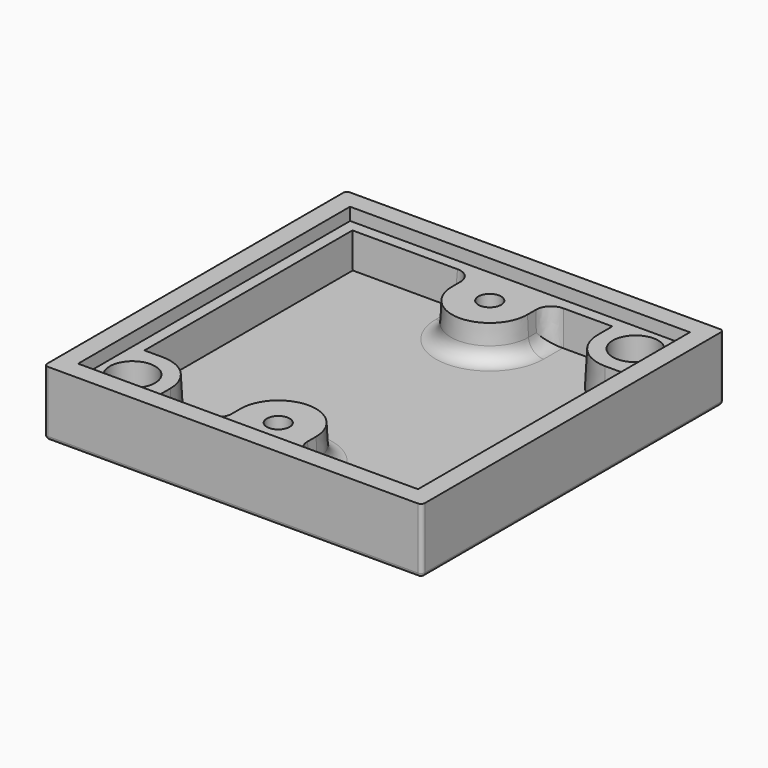
from build123d import *

# Parameters (mm, degrees)
F0_W      = 50
F0_H      = 50
F1_DEPTH  = 8.6
F2_W      = 45
F2_H      = 45
F3_DEPTH  = 1.6
F3_TAPER  = 3
F5_DEPTH  = 4.5
F5_TAPER  = 3
F6_R      = 3
F7_DEPTH  = 7
F8_R      = 0.5
F9_R      = 1.5095
F10_DEPTH = 5
F11_R     = 2


with BuildPart() as f1:
    # F0 (on Top) → F1 (new body)
    with BuildSketch(Plane.XY):
        Rectangle(F0_W, F0_H)
    extrude(amount=-F1_DEPTH)

    # F2 (on face) → F3 (cut)
    with BuildSketch(Plane.XY):
        Rectangle(F2_W, F2_H)
    extrude(amount=-F3_DEPTH, taper=F3_TAPER, mode=Mode.SUBTRACT)

    # F4 (on face) → F5 (cut)
    with BuildSketch(Plane.XY.offset(-1.6)):
        with BuildLine():
            Line((13.5, 18.5), (13.5, 20.9161475531))
            Line((13.5, 20.9161475531), (5, 20.9161475531))
            Line((5, 20.9161475531), (5, 17.5))
            ThreePointArc((5, 17.5), (0, 12.5), (-5, 17.5))
            Line((-5, 17.5), (-5, 20.9161475531))
            Line((-5, 20.9161475531), (-20.9161475531, 20.9161475531))
            Line((-20.9161475531, 20.9161475531), (-20.9161475531, -13.5))
            Line((-20.9161475531, -13.5), (-18.5, -13.5))
            ThreePointArc((-18.5, -13.5), (-14.9644660941, -14.9644660941), (-13.5, -18.5))
            Line((-13.5, -18.5), (-13.5, -20.9161475531))
            Line((-13.5, -20.9161475531), (-5, -20.9161475531))
            Line((-5, -20.9161475531), (-5, -17.5))
            ThreePointArc((-5, -17.5), (0, -12.5), (5, -17.5))
            Line((5, -17.5), (5, -20.9161475531))
            Line((5, -20.9161475531), (20.9161475531, -20.9161475531))
            Line((20.9161475531, -20.9161475531), (20.9161475531, 13.5))
            Line((20.9161475531, 13.5), (18.5, 13.5))
            ThreePointArc((18.5, 13.5), (14.9644660941, 14.9644660941), (13.5, 18.5))
        make_face()
    extrude(amount=-F5_DEPTH, taper=F5_TAPER, mode=Mode.SUBTRACT)

    # F6 (on face) → F7 (cut, through all)
    with BuildSketch(Plane.XY.offset(-1.6)):
        with Locations((18.5, 18.5)):
            Circle(F6_R)
        with Locations((-18.5, -18.5)):
            Circle(F6_R)
    extrude(amount=-F7_DEPTH, mode=Mode.SUBTRACT)

    # F8
    f8_edges = [f1.edges().sort_by_distance(p)[0] for p in [
        (0, -25, -8.6),
        (-25, -25, -4.3),
        (-25, 0, -8.6),
        (-21.5, -18.5, -8.6),
        (15.5, 18.5, -8.6),
        (-25, 25, -4.3),
        (0, 25, -8.6),
        (25, 25, -4.3),
        (25, 0, -8.6),
        (25, -25, -4.3),
    ]]
    fillet(f8_edges, radius=F8_R)

    # F9 (on face) → F10 (cut)
    with BuildSketch(Plane.XY.offset(-1.6)):
        with Locations((0, 17.5)):
            Circle(F9_R)
        with Locations((0, -17.5)):
            Circle(F9_R)
    extrude(amount=-F10_DEPTH, mode=Mode.SUBTRACT)

    # F11
    f11_edges = [f1.edges().sort_by_distance(p)[0] for p in [
        (5.117918, 20.79823, -3.85),
        (0, 12.264165, -6.1),
        (-5.117918, 20.79823, -3.85),
        (-5.117918, -20.79823, -3.85),
        (-5.235835, -19.090156, -6.1),
        (5.117918, -20.79823, -3.85),
    ]]
    fillet(f11_edges, radius=F11_R)


solid = f1.part
